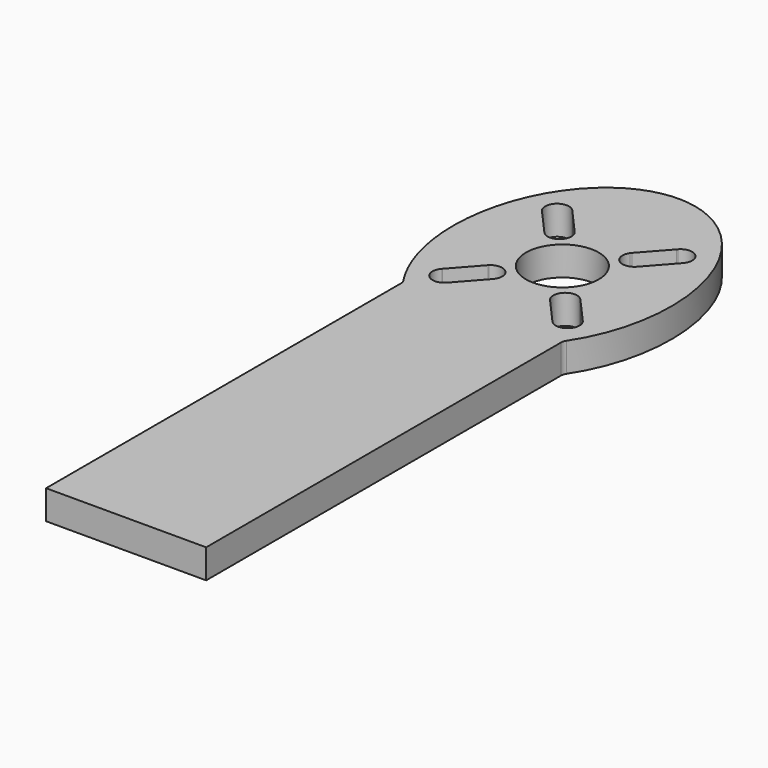
from build123d import *

# Parameters (mm, degrees)
F0_R     = 5
F1_DEPTH = 4


with BuildPart() as f1:
    # F0 (on Top) → F1 (new body)
    with BuildSketch(Plane.XY):
        with BuildLine():
            Line((-11, -30.7188350707), (11, -30.7188350707))
            Line((11, -30.7188350707), (11, 30.2462431125))
            ThreePointArc((11, 30.2462431125), (11.0523412572, 30.5993794996), (11.2048644339, 30.922151239))
            add(Edge.make_bspline(
                [(11.2048644339, 30.922151239), (33.4308099235, 64.2188350707), (0, 64.2188350707), (-33.4308099235, 64.2188350707), (-11.2048644339, 30.922151239)],
                knots=[0.8435244992, 0.8435244992, 0.8435244992, 3.1415926536, 3.1415926536, 5.439660808, 5.439660808, 5.439660808], degree=2, weights=[1, 0.4093689097, 1, 0.4093689097, 1]))
            ThreePointArc((-11.2048644339, 30.922151239), (-11.0523412572, 30.5993794996), (-11, 30.2462431125))
            Line((-11, 30.2462431125), (-11, -30.7188350707))
        make_face()
        with BuildLine():
            ThreePointArc((9.6845585642, 35.6225271335), (9.5499827392, 33.3212906512), (7.248746257, 33.4558664762))
            Line((7.248746257, 33.4558664762), (7.1707048968, 33.5436024605))
            ThreePointArc((7.1707048968, 33.5436024605), (0, 31.3588350707), (-7.1707048968, 33.5436024605))
            Line((-7.1707048968, 33.5436024605), (-7.248746257, 33.4558664762))
            ThreePointArc((-7.248746257, 33.4558664762), (-9.5499827392, 33.3212906512), (-9.6845585642, 35.6225271335))
            Line((-9.6845585642, 35.6225271335), (-9.624717664, 35.6898017206))
            ThreePointArc((-9.624717664, 35.6898017206), (-12.86, 44.2188350707), (-9.624717664, 52.7478684209))
            Line((-9.624717664, 52.7478684209), (-9.6845585642, 52.815143008))
            ThreePointArc((-9.6845585642, 52.815143008), (-9.5499827392, 55.1163794902), (-7.248746257, 54.9818036653))
            Line((-7.248746257, 54.9818036653), (-7.1707048968, 54.894067681))
            ThreePointArc((-7.1707048968, 54.894067681), (0, 57.0788350707), (7.1707048968, 54.894067681))
            Line((7.1707048968, 54.894067681), (7.248746257, 54.9818036653))
            ThreePointArc((7.248746257, 54.9818036653), (9.5499827392, 55.1163794902), (9.6845585642, 52.815143008))
            Line((9.6845585642, 52.815143008), (9.624717664, 52.7478684209))
            ThreePointArc((9.624717664, 52.7478684209), (12.0240065943, 48.7798509028), (12.86, 44.2188350707))
            ThreePointArc((12.86, 44.2188350707), (12.0240065943, 39.6578192387), (9.624717664, 35.6898017206))
            Line((9.624717664, 35.6898017206), (9.6845585642, 35.6225271335))
        make_face(mode=Mode.SUBTRACT)
        with BuildLine():
            ThreePointArc((-7.1707048968, 33.5436024605), (0, 31.3588350707), (7.1707048968, 33.5436024605))
            Line((7.1707048968, 33.5436024605), (3.9254583381, 37.1919871215))
            ThreePointArc((3.9254583381, 37.1919871215), (3.8639458478, 37.26537293), (3.8068487765, 37.3422441717))
            ThreePointArc((3.8068487765, 37.3422441717), (0, 36.3588350707), (-3.8068487765, 37.3422441717))
            ThreePointArc((-3.8068487765, 37.3422441717), (-3.8639458478, 37.26537293), (-3.9254583381, 37.1919871215))
            Line((-3.9254583381, 37.1919871215), (-7.1707048968, 33.5436024605))
        make_face()
        with BuildLine():
            Line((6.3612706453, 39.3586477788), (9.624717664, 35.6898017206))
            ThreePointArc((9.624717664, 35.6898017206), (12.0240065943, 39.6578192387), (12.86, 44.2188350707))
            ThreePointArc((12.86, 44.2188350707), (12.0240065943, 48.7798509028), (9.624717664, 52.7478684209))
            Line((9.624717664, 52.7478684209), (6.3612706453, 49.0790223626))
            ThreePointArc((6.3612706453, 49.0790223626), (6.3111659865, 49.0251897001), (6.2586841305, 48.9736718665))
            ThreePointArc((6.2586841305, 48.9736718665), (7.4489213067, 46.7274544853), (7.86, 44.2188350707))
            ThreePointArc((7.86, 44.2188350707), (7.4489213067, 41.7102156562), (6.2586841305, 39.463998275))
            ThreePointArc((6.2586841305, 39.463998275), (6.3111659865, 39.4124804414), (6.3612706453, 39.3586477788))
        make_face()
        with BuildLine():
            ThreePointArc((-9.624717664, 52.7478684209), (-12.86, 44.2188350707), (-9.624717664, 35.6898017206))
            Line((-9.624717664, 35.6898017206), (-6.3612706453, 39.3586477788))
            ThreePointArc((-6.3612706453, 39.3586477788), (-6.3111659865, 39.4124804414), (-6.2586841305, 39.463998275))
            ThreePointArc((-6.2586841305, 39.463998275), (-7.86, 44.2188350707), (-6.2586841305, 48.9736718665))
            ThreePointArc((-6.2586841305, 48.9736718665), (-6.3111659865, 49.0251897001), (-6.3612706453, 49.0790223626))
            Line((-6.3612706453, 49.0790223626), (-9.624717664, 52.7478684209))
        make_face()
        with BuildLine():
            Line((3.9254583381, 51.2456830199), (7.1707048968, 54.894067681))
            ThreePointArc((7.1707048968, 54.894067681), (0, 57.0788350707), (-7.1707048968, 54.894067681))
            Line((-7.1707048968, 54.894067681), (-3.9254583381, 51.2456830199))
            ThreePointArc((-3.9254583381, 51.2456830199), (-3.8639458478, 51.1722972114), (-3.8068487765, 51.0954259698))
            ThreePointArc((-3.8068487765, 51.0954259698), (0, 52.0788350707), (3.8068487765, 51.0954259698))
            ThreePointArc((3.8068487765, 51.0954259698), (3.8639458478, 51.1722972114), (3.9254583381, 51.2456830199))
        make_face()
        with BuildLine():
            ThreePointArc((-3.8068487765, 37.3422441717), (0, 36.3588350707), (3.8068487765, 37.3422441717))
            ThreePointArc((3.8068487765, 37.3422441717), (4.0767380131, 39.5078789924), (6.2586841305, 39.463998275))
            ThreePointArc((6.2586841305, 39.463998275), (7.4489213067, 41.7102156562), (7.86, 44.2188350707))
            ThreePointArc((7.86, 44.2188350707), (7.4489213067, 46.7274544853), (6.2586841305, 48.9736718665))
            ThreePointArc((6.2586841305, 48.9736718665), (4.0767380131, 48.9297911491), (3.8068487765, 51.0954259698))
            ThreePointArc((3.8068487765, 51.0954259698), (0, 52.0788350707), (-3.8068487765, 51.0954259698))
            ThreePointArc((-3.8068487765, 51.0954259698), (-4.0767380131, 48.9297911491), (-6.2586841305, 48.9736718665))
            ThreePointArc((-6.2586841305, 48.9736718665), (-7.86, 44.2188350707), (-6.2586841305, 39.463998275))
            ThreePointArc((-6.2586841305, 39.463998275), (-4.0767380131, 39.5078789924), (-3.8068487765, 37.3422441717))
        make_face()
        with Locations((0, 44.2188350707)):
            Circle(F0_R, mode=Mode.SUBTRACT)
    extrude(amount=F1_DEPTH)


solid = f1.part
